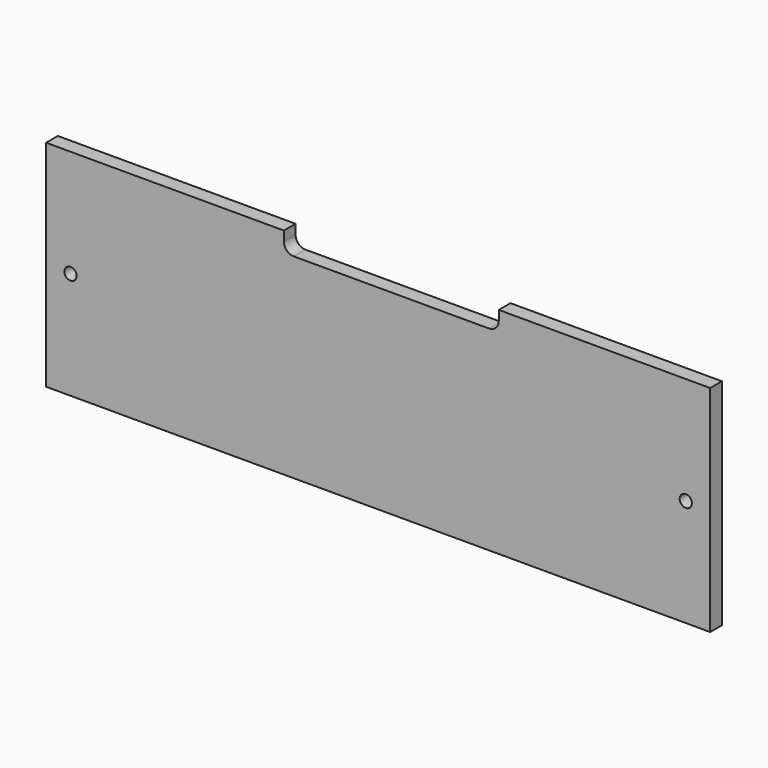
from build123d import *

# Parameters (mm, degrees)
SKETCH_W     = 136
SKETCH_H     = 44
SKETCH_R     = 1.25
PAD_DEPTH    = 3
SKETCH001_W  = 44
SKETCH001_H  = 5
POCKET_DEPTH = 3.001
FILLET_R     = 2


with BuildPart() as part:
    # Sketch → Pad (new body)
    with BuildSketch(Plane.XZ):
        with Locations((68, 22)):
            Rectangle(SKETCH_W, SKETCH_H)
        with Locations((5, 22)):
            Circle(SKETCH_R, mode=Mode.SUBTRACT)
        with Locations((131, 22)):
            Circle(SKETCH_R, mode=Mode.SUBTRACT)
    extrude(amount=PAD_DEPTH)

    # Sketch001 (on Face8 of Pad) → Pocket (cut, through all)
    with BuildSketch(Plane.XZ.offset(3)):
        with Locations((70.7, 42.5)):
            Rectangle(SKETCH001_W, SKETCH001_H)
    extrude(amount=-POCKET_DEPTH, mode=Mode.SUBTRACT)

    # Fillet
    fillet_edges = [part.edges().sort_by_distance(p)[0] for p in [
        (48.7, -1.5, 40),
        (92.7, -1.5, 40),
    ]]
    fillet(fillet_edges, radius=FILLET_R)


solid = part.part
